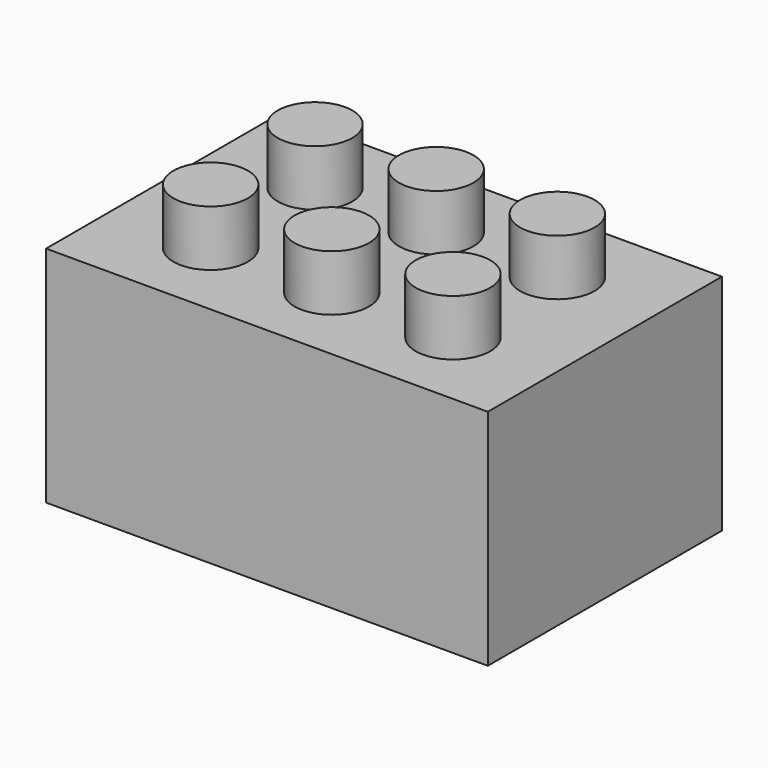
from build123d import *

# Parameters (mm, degrees)
F0_W     = 23.7
F0_H     = 15.7
F1_DEPTH = 12
F2_R     = 2
F3_DEPTH = 3
F4_W     = 20.7
F4_H     = 12.7
F5_DEPTH = 10.5
F6_R     = 2.683106
F6_R_2   = 1.683106
F7_DEPTH = 10


with BuildPart() as f1:
    # F0 (on Top) → F1 (new body)
    with BuildSketch(Plane.XY):
        with Locations((11.85, 7.85)):
            Rectangle(F0_W, F0_H)
    extrude(amount=F1_DEPTH)

    # F2 (on face) → F3 (join)
    with BuildSketch(Plane.XY.offset(12)):
        with Locations((5.35, 11.35)):
            Circle(F2_R)
        with Locations((11.85, 11.35)):
            Circle(F2_R)
        with Locations((18.35, 11.35)):
            Circle(F2_R)
        with Locations((5.35, 4.35)):
            Circle(F2_R)
        with Locations((11.85, 4.35)):
            Circle(F2_R)
        with Locations((18.35, 4.35)):
            Circle(F2_R)
    extrude(amount=F3_DEPTH)

    # F4 (on face) → F5 (cut)
    with BuildSketch(Plane(origin=(0, 0, 0), x_dir=(1, 0, 0), z_dir=(0, 0, -1))):
        with Locations((11.85, -7.85)):
            Rectangle(F4_W, F4_H)
    extrude(amount=-F5_DEPTH, mode=Mode.SUBTRACT)

    # F6 (on face) → F7 (join)
    with BuildSketch(Plane(origin=(0, 0, 10.5), x_dir=(1, 0, 0), z_dir=(0, 0, -1))):
        with Locations((8.612973, -7.835798)):
            Circle(F6_R)
        with Locations((8.612973, -7.835798)):
            Circle(F6_R_2, mode=Mode.SUBTRACT)
        with Locations((15.087027, -7.835798)):
            Circle(F6_R)
        with Locations((15.087027, -7.835798)):
            Circle(F6_R_2, mode=Mode.SUBTRACT)
    extrude(amount=F7_DEPTH)


solid = f1.part
